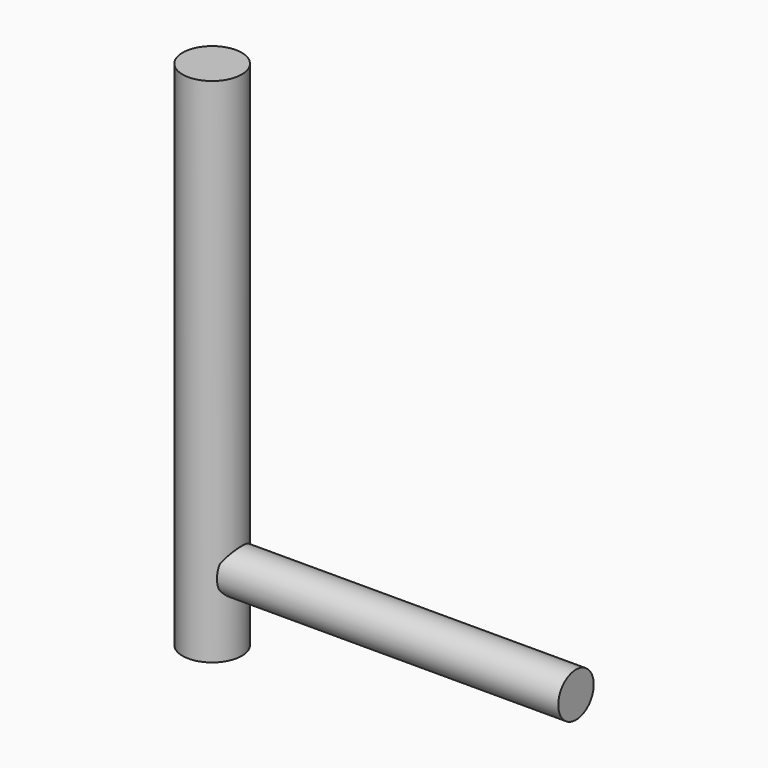
from build123d import *

# Parameters (mm, degrees)
F0_R     = 17.329579
F1_DEPTH = 300
F3_R     = 13.000421
F4_DEPTH = 200


with BuildPart() as f1:
    # F0 (on Top) → F1 (new body)
    with BuildSketch(Plane.XY):
        with Locations((-54.526214, 0)):
            Circle(F0_R)
    extrude(amount=F1_DEPTH)

    # F3 (on offset) → F4 (join)
    with BuildSketch(Plane.YZ.offset(-41.3)):
        with Locations((0, 43.704636)):
            Circle(F3_R)
    extrude(amount=F4_DEPTH)


solid = f1.part
